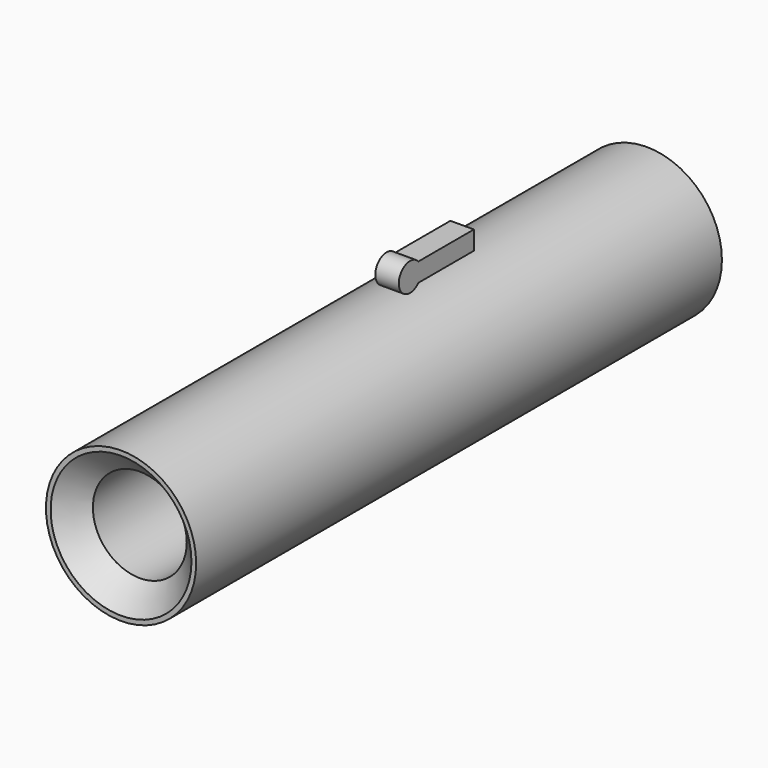
from build123d import *

# Parameters (mm, degrees)
F0_R     = 16
F0_R_2   = 10
F1_DEPTH = 140
F2_SIZE  = 5
F4_DEPTH = 5
F5_SIZE  = 1


with BuildPart() as f1:
    # F0 (on Front) → F1 (new body)
    with BuildSketch(Plane.XZ):
        Circle(F0_R)
        Circle(F0_R_2, mode=Mode.SUBTRACT)
    extrude(amount=F1_DEPTH)

    # F2
    f2_edges = [f1.edges().sort_by_distance(p)[0] for p in [
        (-10, -140, 0),
        (-10, 0, 0),
    ]]
    chamfer(f2_edges, length=F2_SIZE)


with BuildPart() as f4:
    # F3 (on Right) → F4 (new body)
    with BuildSketch(Plane.YZ):
        with BuildLine():
            Line((-51.297374, 23.409808), (-67.061306, 23.409808))
            ThreePointArc((-67.061306, 23.409808), (-66.494857, 22.480274), (-66.297374, 21.409808))
            ThreePointArc((-66.297374, 21.409808), (-66.494857, 20.339342), (-67.061306, 19.409808))
            Line((-67.061306, 19.409808), (-51.297374, 19.409808))
            Line((-51.297374, 19.409808), (-51.297374, 23.409808))
        make_face()
        with BuildLine():
            Line((-67.061306, 23.409808), (-69.297374, 23.409808))
            Line((-69.297374, 23.409808), (-69.297374, 19.409808))
            Line((-69.297374, 19.409808), (-67.061306, 19.409808))
            ThreePointArc((-67.061306, 19.409808), (-66.494857, 20.339342), (-66.297374, 21.409808))
            ThreePointArc((-66.297374, 21.409808), (-66.494857, 22.480274), (-67.061306, 23.409808))
        make_face()
        with BuildLine():
            Line((-69.297374, 19.409808), (-69.297374, 23.409808))
            Line((-69.297374, 23.409808), (-67.061306, 23.409808))
            ThreePointArc((-67.061306, 23.409808), (-72.297374, 21.409808), (-67.061306, 19.409808))
            Line((-67.061306, 19.409808), (-69.297374, 19.409808))
        make_face()
    extrude(amount=F4_DEPTH)

    # F5
    f5_edges = [f4.edges().sort_by_distance(p)[0] for p in [
        (2.5, -51.297374, 23.409808),
        (2.5, -51.297374, 19.409808),
        (5, -51.297374, 21.409808),
    ]]
    chamfer(f5_edges, length=F5_SIZE)


solid = Compound([f1.part, f4.part])
